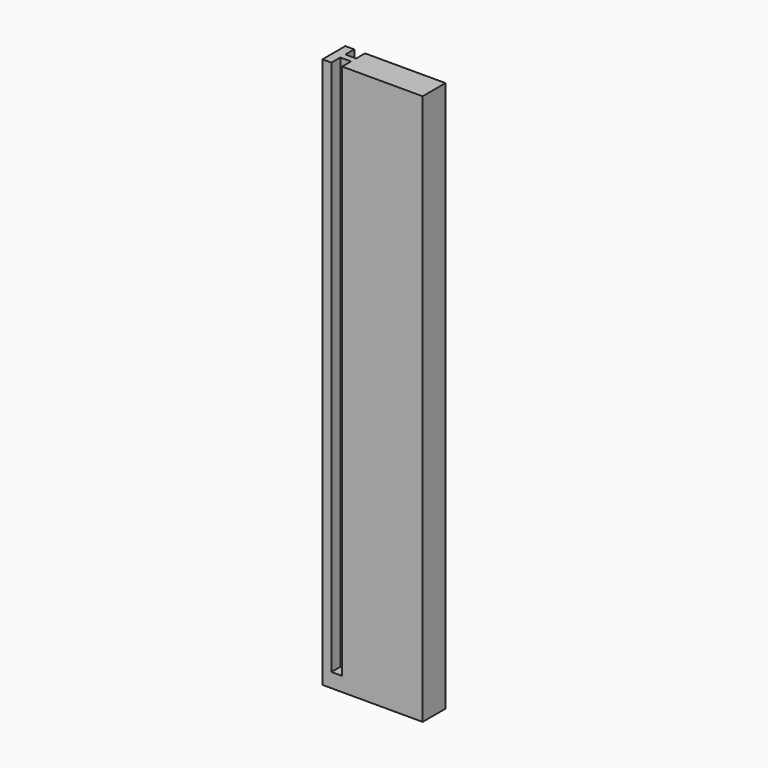
from build123d import *

# Parameters (mm, degrees)
SKETCH_W     = 28
SKETCH_H     = 8
PAD_DEPTH    = 4
PAD001_DEPTH = 150


with BuildPart() as part:
    # Sketch → Pad (new body)
    with BuildSketch(Plane.XY):
        with Locations((-14, 0)):
            Rectangle(SKETCH_W, SKETCH_H)
    extrude(amount=PAD_DEPTH)

    # Sketch001 (on Face6 of Pad) → Pad001 (join)
    with BuildSketch(Plane.XY.offset(4)):
        Polygon((-22.5, 0.9), (-25.5, 0.9), (-25.5, 4), (-28, 4), (-28, -4), (-25.5, -4), (-25.5, -0.9), (-22.5, -0.9), (-22.5, -4), (0, -4), (0, 4), (-22.5, 4), align=None)
    extrude(amount=PAD001_DEPTH)


solid = part.part
